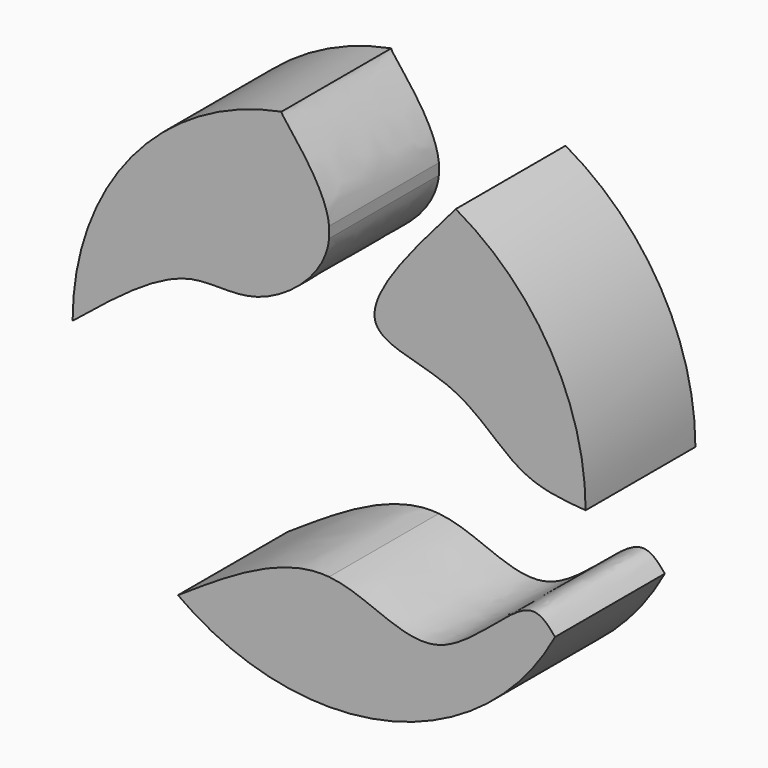
from build123d import *

# Parameters (mm, degrees)
F1_DEPTH = 25


with BuildPart() as f1:
    # F0 (on Front) → F1 (new body)
    with BuildSketch(Plane.XZ):
        with BuildLine():
            ThreePointArc((0, -46.7325523496), (23.9794130672, -40.1113350321), (41.1638664294, -22.1239135255))
            add(Edge.make_bspline(
                [(0, -25.8726906031), (6.9460121025, -26.5200230854), (19.4430496575, -37.3796151953), (35.8389621567, -15.8579760057), (39.8116937231, -20.5297392688), (41.1638664294, -22.1239135255)],
                knots=[0.3262601526, 0.3262601526, 0.3262601526, 0.3262601526, 0.5932413683, 0.8602875124, 1, 1, 1, 1], degree=3))
            Line((0, -25.8726906031), (0, -46.7325523496))
        make_face()
        with BuildLine():
            ThreePointArc((-27.5359584967, -37.7584750589), (-14.4807033112, -44.4324282559), (0, -46.7325523496))
            Line((0, -46.7325523496), (0, -25.8726906031))
            add(Edge.make_bspline(
                [(-27.5359584967, -37.7584750589), (-18.0192757453, -31.43155502), (-8.4882637239, -25.0816282287), (0, -25.8726906031)],
                knots=[0, 0, 0, 0, 0.3262601526, 0.3262601526, 0.3262601526, 0.3262601526], degree=3))
        make_face()
    extrude(amount=F1_DEPTH)


with BuildPart() as f1b:
    # F0 (on Front) → F1, piece 2 (new body)
    with BuildSketch(Plane.XZ):
        with BuildLine():
            add(Edge.make_bspline(
                [(23.0786329916, 40.6362910259), (14.8458867962, 31.199090258), (0.5532964917, 14.8128759439), (24.15531803, 13.5550016973), (34.0066078799, 0.9909495936), (42.6937699961, 0.314529392), (46.7325523496, 0)],
                knots=[0, 0, 0, 0, 0.3168874963, 0.5498677314, 0.7906990608, 1, 1, 1, 1], degree=3))
            ThreePointArc((46.7325523496, 0), (40.3884567268, 23.5096578523), (23.0786329916, 40.6362910259))
        make_face()
    extrude(amount=F1_DEPTH)


with BuildPart() as f1c:
    # F0 (on Front) → F1, piece 3 (new body)
    with BuildSketch(Plane.XZ):
        with BuildLine():
            ThreePointArc((-8.6755959344, 45.9202077988), (-35.98169111, 29.8202842704), (-46.7325523496, 0))
            add(Edge.make_bspline(
                [(-46.7325523496, 0), (-39.2877960747, 6.0523459804), (-26.4744760988, 16.4660861589), (-13.3450562095, 11.8621347674), (-0.6484757808, 21.9680362875), (0, 28.395603164)],
                knots=[0, 0, 0, 0, 0.2775714971, 0.4776252056, 0.7032967279, 0.7032967279, 0.7032967279, 0.7032967279], degree=3))
            Line((0, 28.395603164), (0, 30.4004121572))
            add(Edge.make_bspline(
                [(0, 30.4004121572), (-0.6991251785, 37.2633190715), (-8.7504834545, 44.9960028277), (-8.6755959344, 45.9202077988)],
                knots=[0.7263978111, 0.7263978111, 0.7263978111, 0.7263978111, 0.9603498766, 0.9603498766, 0.9603498766, 0.9603498766], degree=3))
        make_face()
    extrude(amount=F1_DEPTH)


solid = Compound([f1.part, f1b.part, f1c.part])
